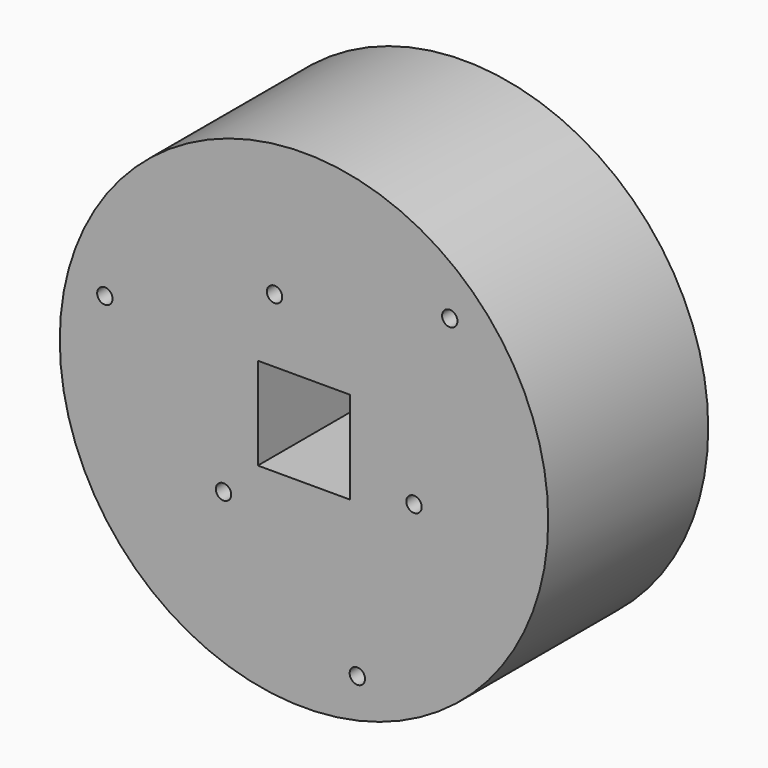
from build123d import *

# Parameters (mm, degrees)
F0_R           = 15.875
F1_DEPTH       = 13
F2_W           = 6
F2_H           = 6
F3_DEPTH       = 13.001
F6_D           = 1
F6_DEPTH       = 5
F6_TIP         = 0.3004303095
F6_ON_F5_D     = 1
F6_ON_F5_DEPTH = 5
F6_ON_F5_TIP   = 0.3004303095


with BuildPart() as f1:
    # F0 (on Front) → F1 (new body)
    with BuildSketch(Plane.XZ):
        Circle(F0_R)
    extrude(amount=-F1_DEPTH)

    # F2 (on Front) → F3 (cut, through all)
    with BuildSketch(Plane.XZ):
        Rectangle(F2_W, F2_H)
    extrude(amount=-F3_DEPTH, mode=Mode.SUBTRACT)

    # F6
    with Locations(Plane.XZ):
        with Locations((9.4752308679, 9.4752308679), (3.4681752044, -12.9434060723), (-12.9434060723, 3.4681752044)):
            Hole(F6_D / 2, depth=F6_DEPTH)
            with Locations((0, 0, -(F6_DEPTH + F6_TIP / 2))):  # 118° drill point
                Cone(0, F6_D / 2, F6_TIP, mode=Mode.SUBTRACT)

    # F6 on F5
    with Locations(Plane.XZ):
        with Locations((-1.9152609338, 7.1478511145), (7.1478511145, -1.9152609338), (-5.2325901808, -5.2325901808)):
            Hole(F6_ON_F5_D / 2, depth=F6_ON_F5_DEPTH)
            with Locations((0, 0, -(F6_ON_F5_DEPTH + F6_ON_F5_TIP / 2))):  # 118° drill point
                Cone(0, F6_ON_F5_D / 2, F6_ON_F5_TIP, mode=Mode.SUBTRACT)


solid = f1.part
